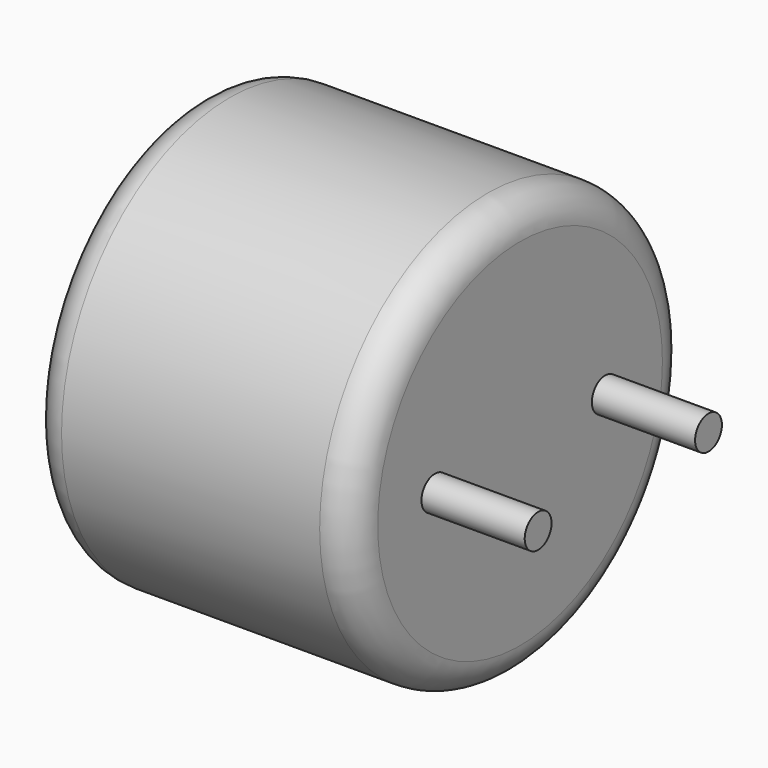
from build123d import *

# Parameters (mm, degrees)
F0_R     = 32.5735
F1_DEPTH = 50
F2_R     = 5
F3_R     = 2.6
F4_DEPTH = 16


with BuildPart() as f1:
    # F0 (on Right) → F1 (new body)
    with BuildSketch(Plane.YZ):
        Circle(F0_R)
    extrude(amount=F1_DEPTH)

    # F2
    f2_edges = [f1.edges().sort_by_distance(p)[0] for p in [
        (50, -32.5735, 0),
        (0, -32.5735, 0),
    ]]
    fillet(f2_edges, radius=F2_R)

    # F3 (on face) → F4 (join)
    with BuildSketch(Plane.YZ.offset(50)):
        with Locations((16.5, 0)):
            Circle(F3_R)
        with Locations((-16.5, 0)):
            Circle(F3_R)
    extrude(amount=F4_DEPTH)


solid = f1.part
